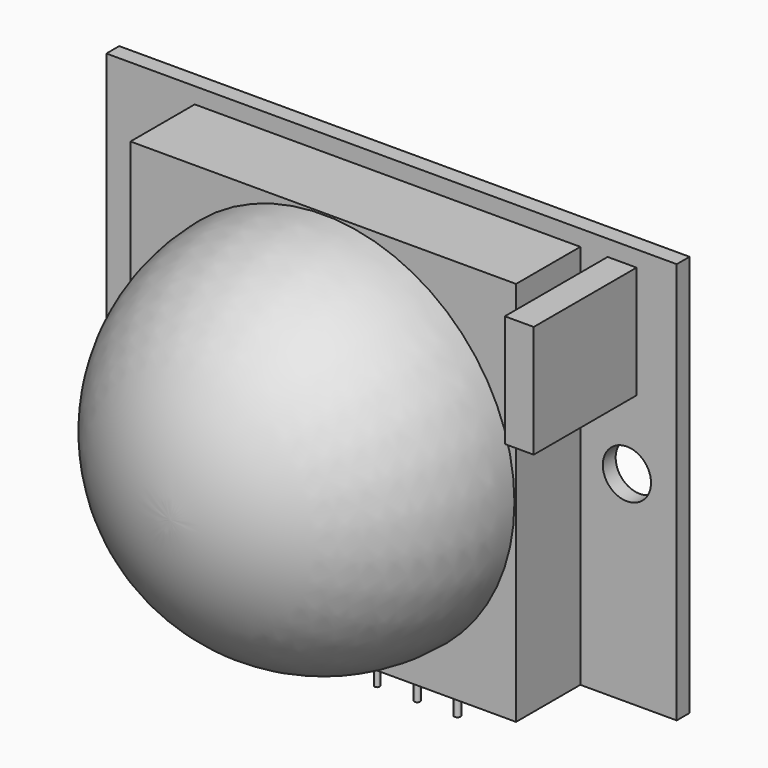
from build123d import *

# Parameters (mm, degrees)
F0_W      = 35.5
F0_H      = 25
F1_DEPTH  = 1
F2_W      = 24
F2_H      = 24
F3_DEPTH  = 5
F7_W      = 1.8
F7_H      = 7
F8_DEPTH  = 8
F9_R      = 1.5
F10_DEPTH = 25
F11_W     = 7
F11_H     = 2
F12_DEPTH = 2
F13_R     = 0.2
F13_R_2   = 0.180913
F13_R_3   = 0.154128
F14_DEPTH = 5.5


with BuildPart() as f1:
    # F0 (on Front) → F1 (new body)
    with BuildSketch(Plane.XZ):
        Rectangle(F0_W, F0_H)
    extrude(amount=-F1_DEPTH)

    # F2 (on face) → F3 (join)
    with BuildSketch(Plane.XZ):
        with Locations((-0.25, -0.5)):
            Rectangle(F2_W, F2_H)
    extrude(amount=F3_DEPTH)

    # F5 (on offset) → F6 (revolve)
    with BuildSketch(Plane.XY.offset(-0.5)):
        with BuildLine():
            ThreePointArc((-0.25, -16.9), (8.164571, -13.414571), (11.65, -5))
            Line((11.65, -5), (-0.25, -5))
            Line((-0.25, -5), (-0.25, -16.9))
        make_face()
    revolve(axis=Axis((-0.25, -10.95, -0.5), (0, -1, 0)))

    # F7 (on face) → F8 (join)
    with BuildSketch(Plane.XZ):
        with Locations((14.35, 8)):
            Rectangle(F7_W, F7_H)
    extrude(amount=F8_DEPTH)

    # F9 (on face) → F10 (cut)
    with BuildSketch(Plane.XZ):
        with Locations((-14.65, 0)):
            Circle(F9_R)
        with Locations((14.65, 0)):
            Circle(F9_R)
    extrude(amount=-F10_DEPTH, mode=Mode.SUBTRACT)

    # F11 (on face) → F12 (join)
    with BuildSketch(Plane(origin=(0, 1, 0), x_dir=(-1, 0, 0), z_dir=(0, 1, 0))):
        with Locations((0, -11.5)):
            Rectangle(F11_W, F11_H)
    extrude(amount=F12_DEPTH)

    # F13 (on face) → F14 (join)
    with BuildSketch(Plane(origin=(0, 0, -12.5), x_dir=(1, 0, 0), z_dir=(0, 0, -1))):
        with Locations((2.5, -2)):
            Circle(F13_R)
        with Locations((0, -2)):
            Circle(F13_R_2)
        with Locations((-2.5, -2)):
            Circle(F13_R_3)
    extrude(amount=F14_DEPTH)


solid = f1.part
